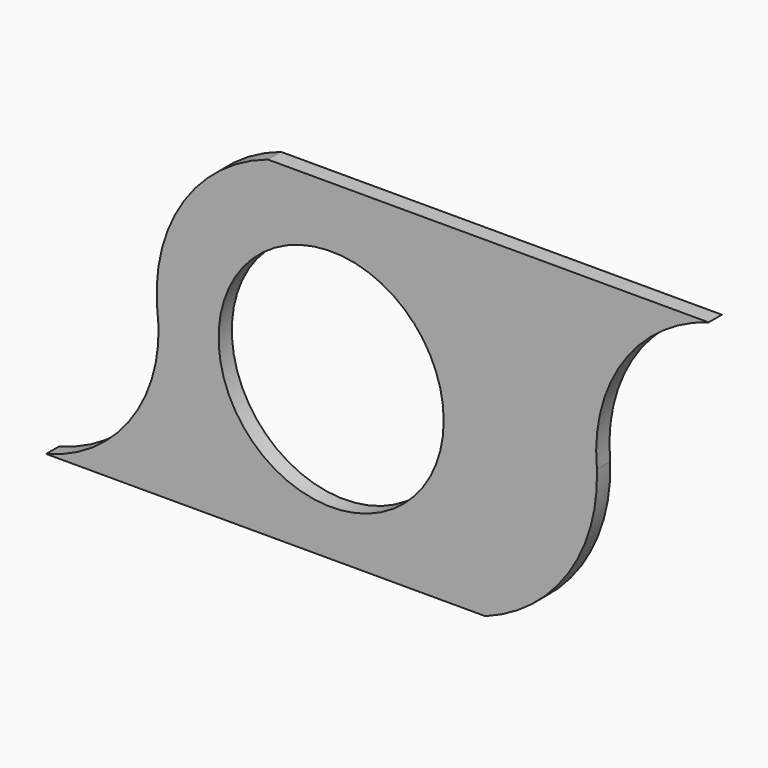
from build123d import *

# Parameters (mm, degrees)
F1_DEPTH = 3
F2_R     = 20.387057
F3_DEPTH = 3


with BuildPart() as f1:
    # F0 (on Front) → F1 (new body)
    with BuildSketch(Plane.XZ):
        with BuildLine():
            ThreePointArc((-39.20792, -2.595125), (-43.531142, -21.438943), (-59.320991, -32.595125))
            Line((-59.320991, -32.595125), (20.21712, -32.595125))
            ThreePointArc((20.21712, -32.595125), (35.220288, -20.893044), (40.437559, -2.595125))
            ThreePointArc((40.437559, -2.595125), (45.153741, 16.051401), (60.679009, 27.404875))
            Line((60.679009, 27.404875), (-19.158415, 27.404875))
            ThreePointArc((-19.158415, 27.404875), (-34.356187, 15.862091), (-39.20792, -2.595125))
        make_face()
    extrude(amount=F1_DEPTH)

    # F2 (on face) → F3 (cut)
    with BuildSketch(Plane.XZ.offset(3)):
        with Locations((-7.695115, -3.897526)):
            Circle(F2_R)
    extrude(amount=-F3_DEPTH, mode=Mode.SUBTRACT)


solid = f1.part
